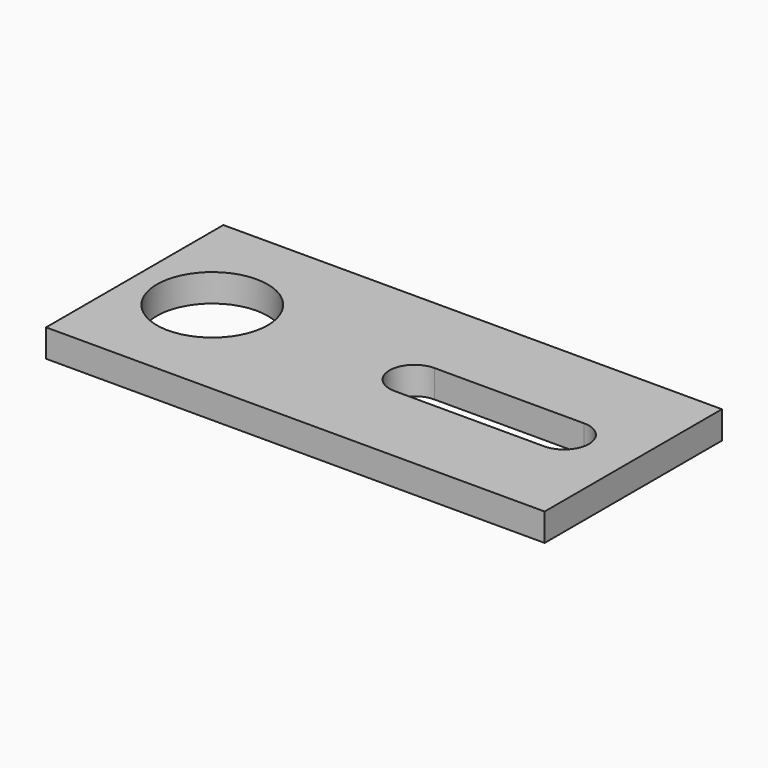
from build123d import *

# Parameters (mm, degrees)
F0_W     = 114.3
F0_H     = 50.8
F0_R     = 12.7
F1_DEPTH = 6.35
F2_W     = 34.29
F2_H     = 11.43
F3_DEPTH = 25.4


with BuildPart() as f1:
    # F0 (on Top) → F1 (new body)
    with BuildSketch(Plane.XY):
        with Locations((-57.15, 25.4)):
            Rectangle(F0_W, F0_H)
        with Locations((-96.52, 25.4)):
            Circle(F0_R, mode=Mode.SUBTRACT)
    extrude(amount=F1_DEPTH)

    # F2 (on face) → F3 (cut)
    with BuildSketch(Plane.XY.offset(6.35)):
        with Locations((-33.02, 25.4)):
            Rectangle(F2_W, F2_H)
        with BuildLine():
            Line((-50.165, 19.685), (-50.165, 31.115))
            ThreePointArc((-50.165, 31.115), (-55.88, 25.4), (-50.165, 19.685))
        make_face()
        with BuildLine():
            ThreePointArc((-15.875, 19.685), (-10.16, 25.4), (-15.875, 31.115))
            Line((-15.875, 31.115), (-15.875, 19.685))
        make_face()
    extrude(amount=-F3_DEPTH, mode=Mode.SUBTRACT)


solid = f1.part
